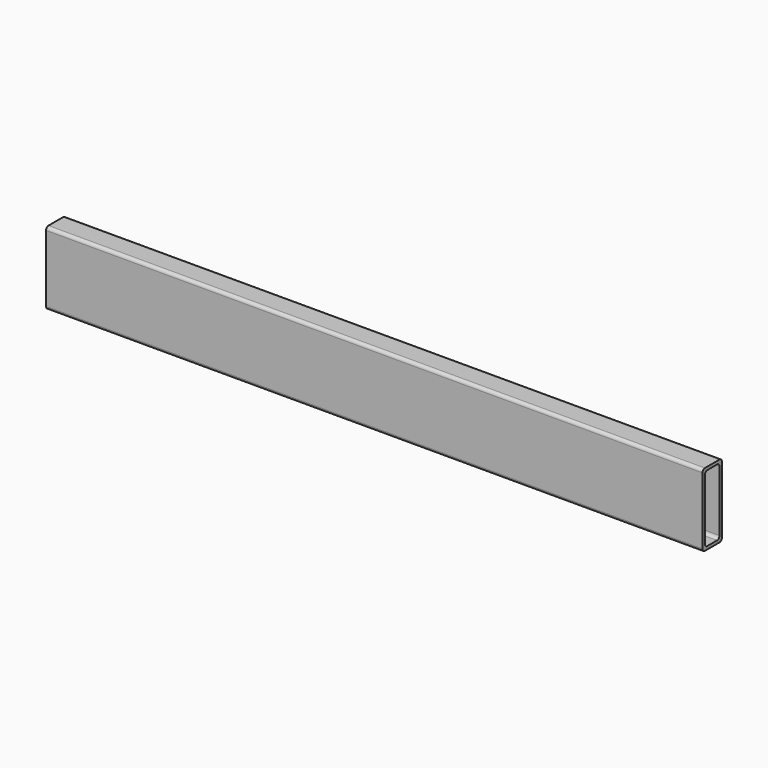
from build123d import *

# Parameters (mm, degrees)
F1_DEPTH = 685.8


with BuildPart() as f1:
    # F0 (on Right) → F1 (new body)
    with BuildSketch(Plane.YZ):
        with BuildLine():
            ThreePointArc((0, 3.175), (0.929936, 0.929936), (3.175, 0))
            Line((3.175, 0), (22.225, 0))
            ThreePointArc((22.225, 0), (24.470064, 0.929936), (25.4, 3.175))
            Line((25.4, 3.175), (25.4, 73.025))
            ThreePointArc((25.4, 73.025), (24.470064, 75.270064), (22.225, 76.2))
            Line((22.225, 76.2), (3.175, 76.2))
            ThreePointArc((3.175, 76.2), (0.929936, 75.270064), (0, 73.025))
            Line((0, 73.025), (0, 3.175))
        make_face()
        with BuildLine():
            Line((19.05, 3.175), (6.35, 3.175))
            ThreePointArc((6.35, 3.175), (4.104936, 4.104936), (3.175, 6.35))
            Line((3.175, 6.35), (3.175, 69.85))
            ThreePointArc((3.175, 69.85), (4.104936, 72.095064), (6.35, 73.025))
            Line((6.35, 73.025), (19.05, 73.025))
            ThreePointArc((19.05, 73.025), (21.295064, 72.095064), (22.225, 69.85))
            Line((22.225, 69.85), (22.225, 6.35))
            ThreePointArc((22.225, 6.35), (21.295064, 4.104936), (19.05, 3.175))
        make_face(mode=Mode.SUBTRACT)
    extrude(amount=F1_DEPTH)


solid = f1.part
